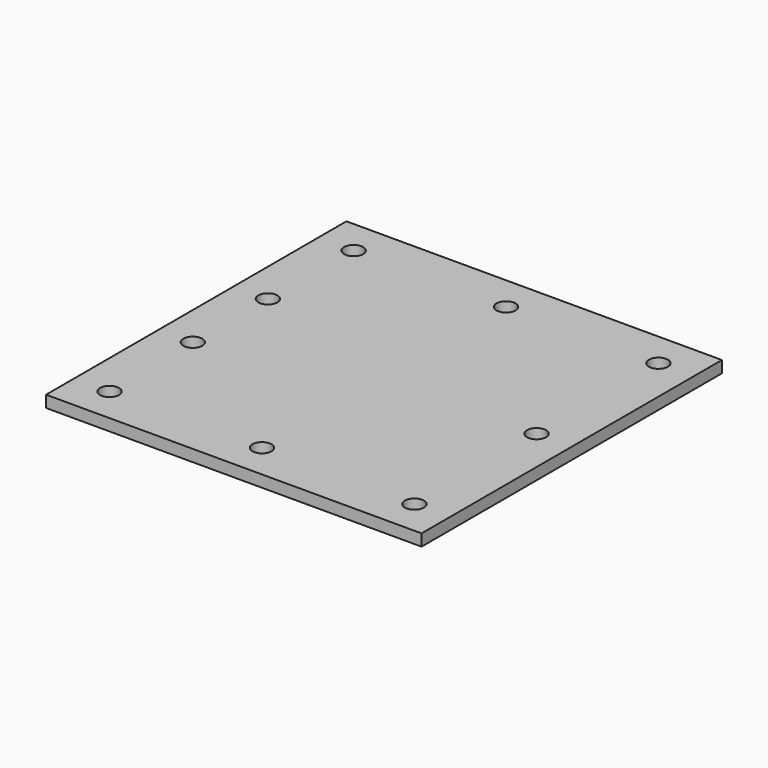
from build123d import *

# Parameters (mm, degrees)
F0_W     = 406.4
F0_H     = 406.4
F1_DEPTH = 12.7
F2_R     = 10.3251
F3_DEPTH = 25.4


with BuildPart() as f1:
    # F0 (on Top) → F1 (new body)
    with BuildSketch(Plane.XY):
        Rectangle(F0_W, F0_H)
    extrude(amount=F1_DEPTH)

    # F2 (on face) → F3 (cut)
    with BuildSketch(Plane.XY.offset(12.7)):
        with Locations((-164.984982, 165.1)):
            Circle(F2_R)
        with Locations((-166.304624, 50.8)):
            Circle(F2_R)
        with Locations((-166.304624, -50.8)):
            Circle(F2_R)
        with Locations((-164.984982, -165.1)):
            Circle(F2_R)
        with Locations((164.984982, 165.1)):
            Circle(F2_R)
        with Locations((164.984982, -165.1)):
            Circle(F2_R)
        with Locations((165.1, 0)):
            Circle(F2_R)
        with Locations((0, 165.1)):
            Circle(F2_R)
        with Locations((0, -165.1)):
            Circle(F2_R)
    extrude(amount=-F3_DEPTH, mode=Mode.SUBTRACT)


solid = f1.part
